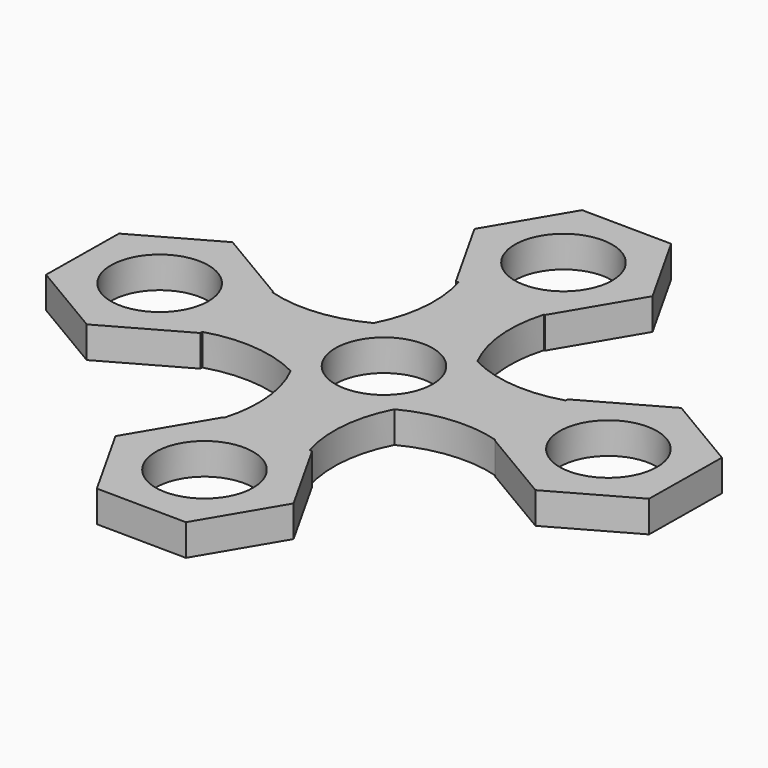
from build123d import *

# Parameters (mm, degrees)
F0_R     = 10.85
F1_DEPTH = 7


with BuildPart() as f1:
    # F0 (on Top) → F1 (new body)
    with BuildSketch(Plane.XY):
        with BuildLine():
            Line((-49.772202, 20.021661), (-67.225368, 10.208109))
            Line((-67.225368, 10.208109), (-67.453166, -9.813551))
            Line((-67.453166, -9.813551), (-50.227798, -20.021661))
            Line((-50.227798, -20.021661), (-32.774632, -10.208109))
            Line((-32.774632, -10.208109), (-32.768349, -9.655883))
            ThreePointArc((-32.768349, -9.655883), (-21.976, -8.527261), (-11.556073, -11.556073))
            ThreePointArc((-11.556073, -11.556073), (-8.537698, -21.862096), (-9.589662, -32.549382))
            Line((-9.589662, -32.549382), (-9.813551, -32.546834))
            Line((-9.813551, -32.546834), (-20.021661, -49.772202))
            Line((-20.021661, -49.772202), (-10.208109, -67.225368))
            Line((-10.208109, -67.225368), (9.813551, -67.453166))
            Line((9.813551, -67.453166), (20.021661, -50.227798))
            Line((20.021661, -50.227798), (10.208109, -32.774632))
            Line((10.208109, -32.774632), (9.655883, -32.768349))
            ThreePointArc((9.655883, -32.768349), (8.527261, -21.976), (11.556073, -11.556073))
            ThreePointArc((11.556073, -11.556073), (21.862096, -8.537698), (32.549382, -9.589662))
            Line((32.549382, -9.589662), (32.546834, -9.813551))
            Line((32.546834, -9.813551), (49.772202, -20.021661))
            Line((49.772202, -20.021661), (67.225368, -10.208109))
            Line((67.225368, -10.208109), (67.453166, 9.813551))
            Line((67.453166, 9.813551), (50.227798, 20.021661))
            Line((50.227798, 20.021661), (32.774632, 10.208109))
            Line((32.774632, 10.208109), (32.768349, 9.655883))
            ThreePointArc((32.768349, 9.655883), (21.976, 8.527261), (11.556073, 11.556073))
            ThreePointArc((11.556073, 11.556073), (8.537698, 21.862096), (9.589662, 32.549382))
            Line((9.589662, 32.549382), (9.813551, 32.546834))
            Line((9.813551, 32.546834), (20.021661, 49.772202))
            Line((20.021661, 49.772202), (10.208109, 67.225368))
            Line((10.208109, 67.225368), (-9.813551, 67.453166))
            Line((-9.813551, 67.453166), (-20.021661, 50.227798))
            Line((-20.021661, 50.227798), (-10.208109, 32.774632))
            Line((-10.208109, 32.774632), (-9.655883, 32.768349))
            ThreePointArc((-9.655883, 32.768349), (-8.527261, 21.976), (-11.556073, 11.556073))
            ThreePointArc((-11.556073, 11.556073), (-21.862096, 8.537698), (-32.549382, 9.589662))
            Line((-32.549382, 9.589662), (-32.546834, 9.813551))
            Line((-32.546834, 9.813551), (-49.772202, 20.021661))
        make_face()
        with Locations((0, -50)):
            Circle(F0_R, mode=Mode.SUBTRACT)
        with Locations((-50, 0)):
            Circle(F0_R, mode=Mode.SUBTRACT)
        Circle(F0_R, mode=Mode.SUBTRACT)
        with Locations((0, 50)):
            Circle(F0_R, mode=Mode.SUBTRACT)
        with Locations((50, 0)):
            Circle(F0_R, mode=Mode.SUBTRACT)
    extrude(amount=F1_DEPTH)


solid = f1.part
